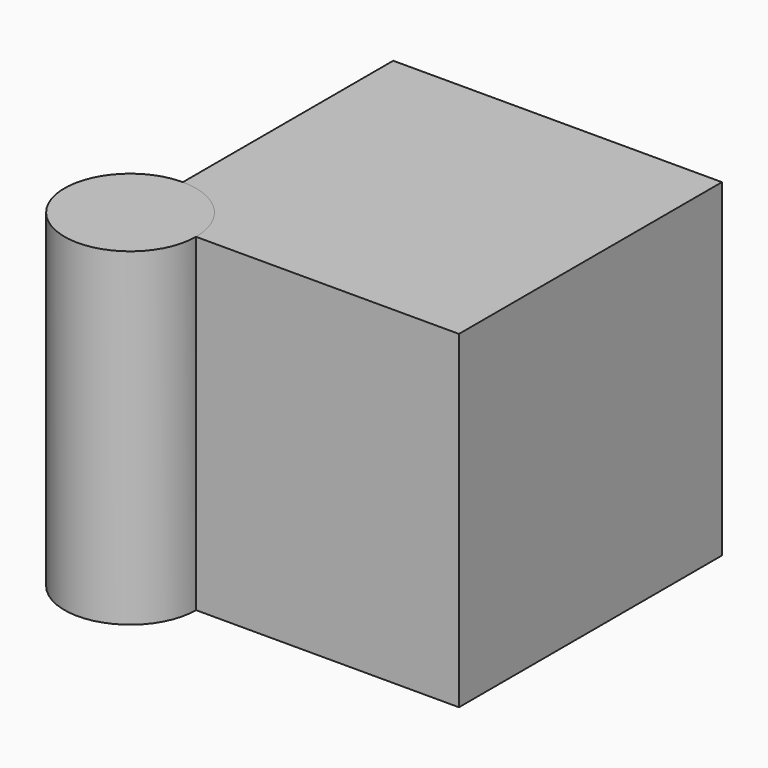
from build123d import *

# Parameters (mm, degrees)
BOX_W          = 10
BOX_H          = 10
BOX_DEPTH      = 10
CYLINDER_R     = 2
CYLINDER_DEPTH = 10


with BuildPart() as cube:
    # Box → Box (new body)
    with BuildSketch(Plane.XY):
        with Locations((5, 5)):
            Rectangle(BOX_W, BOX_H)
    extrude(amount=BOX_DEPTH)


with BuildPart() as cylinder:
    # Cylinder → Cylinder (new body)
    with BuildSketch(Plane.XY):
        Circle(CYLINDER_R)
    extrude(amount=CYLINDER_DEPTH)


solid = Compound([cube.part, cylinder.part])
